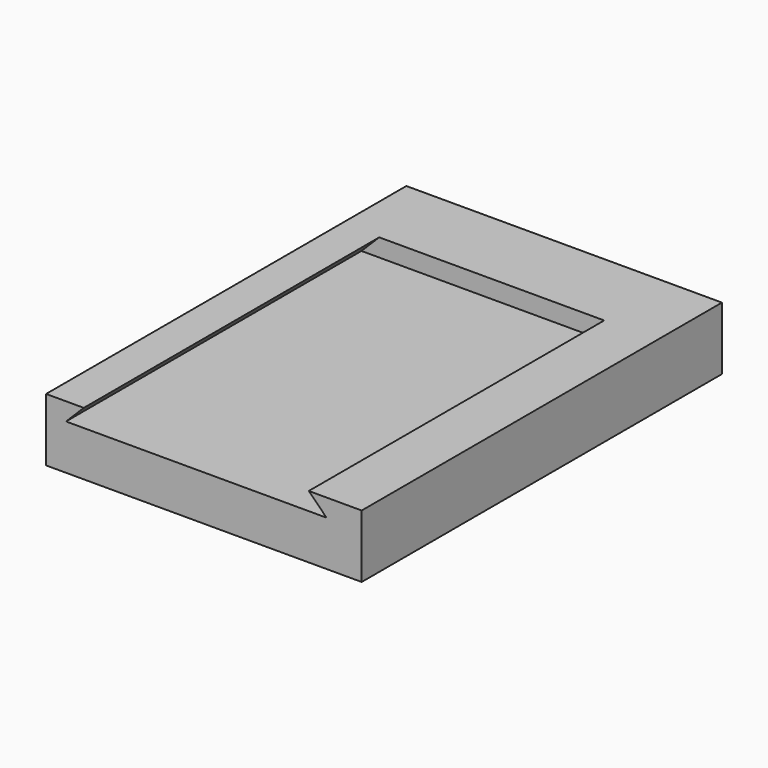
from build123d import *

# Parameters (mm, degrees)
F0_W     = 25.4
F0_H     = 5.066122
F2_DEPTH = 36.24123
F3_DEPTH = 29.71923


with BuildPart() as f2:
    # F0 (on Front) → F2 (new body)
    with BuildSketch(Plane.XZ):
        Rectangle(F0_W, F0_H)
    extrude(amount=-F2_DEPTH)

    # F1 (on face) → F3 (cut)
    with BuildSketch(Plane.XZ):
        Polygon((8.442222, 2.533061), (-9.664212, 2.533061), (-11.094032, 1.103241), (9.872041, 1.103241), align=None)
    extrude(amount=-F3_DEPTH, mode=Mode.SUBTRACT)


solid = f2.part
